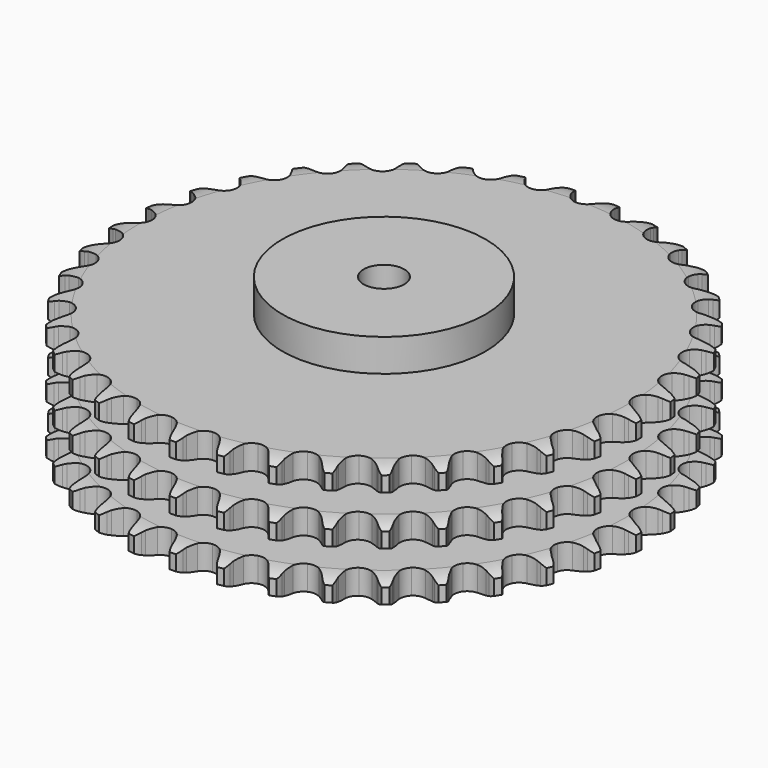
from build123d import *

# Parameters (mm, degrees)
PAD_DEPTH         = 91
SKETCH001_R       = 75
PAD001_DEPTH      = 115
SKETCH002_R       = 15
POCKET_DEPTH      = 0.001
POCKET_DEPTH_BACK = 115.001


with BuildPart() as part:
    # Sprocket → Pad (new body)
    with BuildSketch(Plane.XY):
        with BuildLine():
            ThreePointArc((-16.760043, 196.916247), (-13.948654, 193.906801), (-12.029583, 190.262924))
            Line((-12.029583, 190.262924), (-11.100423, 187.728692))
            ThreePointArc((-11.100423, 187.728692), (-9.632855, 184.471838), (-7.713495, 181.459046))
            ThreePointArc((-7.713495, 181.459046), (-4.316661, 178.605349), (0, 177.581386))
            ThreePointArc((0, 177.581386), (4.316661, 178.605349), (7.713495, 181.459046))
            ThreePointArc((7.713495, 181.459046), (9.632855, 184.471838), (11.100423, 187.728692))
            Line((11.100423, 187.728692), (12.029583, 190.262924))
            ThreePointArc((12.029583, 190.262924), (13.948654, 193.906801), (16.760043, 196.916247))
            ThreePointArc((16.760043, 196.916247), (19.022393, 193.474962), (20.298042, 189.559175))
            Line((20.298042, 189.559175), (20.785549, 186.904367))
            ThreePointArc((20.785549, 186.904367), (21.681597, 183.446339), (23.064184, 180.15251))
            ThreePointArc((23.064184, 180.15251), (25.929881, 176.765793), (30.0114, 175.027039))
            ThreePointArc((30.0114, 175.027039), (34.439021, 175.306755), (38.269271, 177.545336))
            Line((38.269271, 177.545336), (42.667057, 183.152405))
            ThreePointArc((42.667057, 183.152405), (43.307294, 184.341043), (44.011138, 185.493156))
            ThreePointArc((44.011138, 185.493156), (46.518424, 188.760294), (49.797972, 191.251325))
            ThreePointArc((49.797972, 191.251325), (51.4462, 187.477201), (52.041729, 183.402153))
            Line((52.041729, 183.402153), (52.073559, 180.703143))
            ThreePointArc((52.073559, 180.703143), (52.372308, 177.143423), (53.178349, 173.663314))
            ThreePointArc((53.178349, 173.663314), (55.430467, 169.841007), (59.159426, 167.437483))
            ThreePointArc((59.159426, 167.437483), (63.570632, 166.964904), (67.72411, 168.52397))
            Line((67.72411, 168.52397), (73.006237, 173.307157))
            ThreePointArc((73.006237, 173.307157), (73.838145, 174.370497), (74.726574, 175.387087))
            ThreePointArc((74.726574, 175.387087), (77.749943, 178.183497), (81.403304, 180.084451))
            ThreePointArc((81.403304, 180.084451), (82.389994, 176.086062), (82.288271, 171.968985))
            Line((82.288271, 171.968985), (81.863508, 169.303418))
            ThreePointArc((81.863508, 169.303418), (81.556364, 165.744413), (81.762669, 162.178141))
            ThreePointArc((81.762669, 162.178141), (83.33642, 158.030204), (86.605544, 155.031056))
            ThreePointArc((86.605544, 155.031056), (90.873432, 153.819777), (95.230649, 154.654476))
            Line((95.230649, 154.654476), (101.24516, 158.476178))
            ThreePointArc((101.24516, 158.476178), (102.244807, 159.383629), (103.292262, 160.235451))
            ThreePointArc((103.292262, 160.235451), (106.744739, 162.480685), (110.666812, 163.736875))
            ThreePointArc((110.666812, 163.736875), (110.963578, 159.629248), (110.167528, 155.588582))
            Line((110.167528, 155.588582), (109.298393, 153.033142))
            ThreePointArc((109.298393, 153.033142), (108.394192, 149.577238), (107.994827, 146.027398))
            ThreePointArc((107.994827, 146.027398), (108.844935, 141.673161), (111.560178, 138.164667))
            ThreePointArc((111.560178, 138.164667), (115.561969, 136.249535), (119.997576, 136.335854))
            Line((119.997576, 136.335854), (126.571445, 139.086127))
            ThreePointArc((126.571445, 139.086127), (127.710073, 139.811584), (128.886419, 140.474133))
            ThreePointArc((128.886419, 140.474133), (132.668682, 142.1036), (136.746637, 142.678887))
            ThreePointArc((136.746637, 142.678887), (136.344942, 138.580191), (134.877467, 134.73218))
            Line((134.877467, 134.73218), (133.588961, 132.360382))
            ThreePointArc((133.588961, 132.360382), (132.113716, 129.106998), (131.120169, 125.675712))
            ThreePointArc((131.120169, 125.675712), (131.22218, 121.240438), (133.305428, 117.323533))
            ThreePointArc((133.305428, 117.323533), (136.925998, 114.759642), (141.312392, 114.095098))
            Line((141.312392, 114.095098), (148.256499, 115.694822))
            ThreePointArc((148.256499, 115.694822), (149.501352, 116.217414), (150.772749, 116.67163))
            ThreePointArc((150.772749, 116.67163), (154.775989, 117.638453), (158.89251, 117.516287))
            ThreePointArc((158.89251, 117.516287), (157.80391, 113.544434), (155.707226, 109.999777))
            Line((155.707226, 109.999777), (154.036419, 107.879854))
            ThreePointArc((154.036419, 107.879854), (152.032569, 104.922585), (150.473423, 101.708565))
            ThreePointArc((150.473423, 101.708565), (149.824402, 97.319848), (151.215724, 93.107214))
            ThreePointArc((151.215724, 93.107214), (154.350916, 89.968323), (158.561907, 88.572034))
            Line((158.561907, 88.572034), (165.676484, 88.975187))
            ThreePointArc((165.676484, 88.975187), (166.99175, 89.279882), (168.321622, 89.512697))
            ThreePointArc((168.321622, 89.512697), (172.430672, 89.789062), (176.467335, 88.972958))
            ThreePointArc((176.467335, 88.972958), (174.723147, 85.24221), (172.057572, 82.102882))
            Line((172.057572, 82.102882), (170.052529, 80.29582))
            ThreePointArc((170.052529, 80.29582), (167.577722, 77.71974), (165.497831, 74.815448))
            ThreePointArc((165.497831, 74.815448), (164.116449, 70.599544), (164.775819, 66.21237))
            ThreePointArc((164.775819, 66.21237), (167.335439, 62.588779), (171.249884, 60.500913))
            Line((171.249884, 60.500913), (178.330258, 59.695898))
            ThreePointArc((178.330258, 59.695898), (179.678099, 59.773929), (181.028188, 59.778646))
            ThreePointArc((181.028188, 59.778646), (185.124839, 59.356603), (188.965516, 57.870039))
            ThreePointArc((188.965516, 57.870039), (186.615917, 54.487723), (183.458135, 51.844036))
            Line((183.458135, 51.844036), (181.176538, 50.401821))
            ThreePointArc((181.176538, 50.401821), (178.301969, 48.28104), (175.761168, 45.770027))
            ThreePointArc((175.761168, 45.770027), (173.687164, 41.848219), (173.595614, 37.412717))
            ThreePointArc((173.595614, 37.412717), (175.506026, 33.40867), (179.011315, 30.689292))
            Line((179.011315, 30.689292), (185.853796, 28.699267))
            ThreePointArc((185.853796, 28.699267), (187.195436, 28.548389), (188.526902, 28.324872))
            ThreePointArc((188.526902, 28.324872), (192.493301, 27.216563), (196.027503, 25.102304))
            ThreePointArc((196.027503, 25.102304), (193.140087, 22.165724), (189.580941, 20.093731))
            Line((189.580941, 20.093731), (187.088427, 19.057853))
            ThreePointArc((187.088427, 19.057853), (183.896793, 17.453382), (180.968175, 15.407885))
            ThreePointArc((180.968175, 15.407885), (178.261216, 11.892998), (177.421379, 7.536768))
            ThreePointArc((177.421379, 7.536768), (178.627624, 3.267454), (181.622915, -0.005205))
            Line((181.622915, -0.005205), (188.030658, -3.12299))
            ThreePointArc((188.030658, -3.12299), (189.327501, -3.498435), (190.602041, -3.943756))
            ThreePointArc((190.602041, -3.943756), (194.324082, -5.706448), (197.450136, -8.387579))
            ThreePointArc((197.450136, -8.387579), (194.107968, -10.793943), (190.249849, -12.234633))
            Line((190.249849, -12.234633), (187.618123, -12.834375))
            ThreePointArc((187.618123, -12.834375), (184.201241, -13.876378), (180.969058, -15.397513))
            ThreePointArc((180.969058, -15.397513), (177.707017, -18.404364), (176.143054, -22.556))
            ThreePointArc((176.143054, -22.556), (176.610431, -26.96776), (179.009556, -30.699552))
            Line((179.009556, -30.699552), (184.79822, -34.855404))
            ThreePointArc((184.79822, -34.855404), (186.012959, -35.444617), (187.193906, -36.09893))
            ThreePointArc((187.193906, -36.09893), (190.564512, -38.465295), (193.192487, -41.636166))
            ThreePointArc((193.192487, -41.636166), (189.491716, -43.443087), (185.445615, -44.21103))
            Line((185.445615, -44.21103), (182.750387, -44.357381))
            ThreePointArc((182.750387, -44.357381), (179.206554, -44.806939), (175.763791, -45.759953))
            ThreePointArc((175.763791, -45.759953), (172.04051, -48.172265), (169.797414, -51.999873))
            ThreePointArc((169.797414, -51.999873), (169.512477, -56.427161), (171.246417, -60.510728))
            Line((171.246417, -60.510728), (176.249474, -65.585091))
            ThreePointArc((176.249474, -65.585091), (177.347163, -66.371121), (178.400543, -67.215604))
            ThreePointArc((178.400543, -67.215604), (181.322749, -70.117566), (183.377043, -73.686957))
            ThreePointArc((183.377043, -73.686957), (179.424133, -74.842454), (175.306448, -74.915555))
            Line((175.306448, -74.915555), (172.625256, -74.604306))
            ThreePointArc((172.625256, -74.604306), (169.056422, -74.448487), (165.502119, -74.805963))
            ThreePointArc((165.502119, -74.805963), (161.424712, -76.554339), (158.567011, -79.947805))
            ThreePointArc((158.567011, -79.947805), (157.537958, -84.263256), (158.55683, -88.581121))
            Line((158.55683, -88.581121), (162.630352, -94.428015))
            ThreePointArc((162.630352, -94.428015), (163.579411, -95.388248), (164.474922, -96.398607))
            ThreePointArc((164.474922, -96.398607), (166.86466, -99.752682), (168.286175, -103.617907))
            ThreePointArc((168.286175, -103.617907), (164.194844, -104.088739), (160.124034, -103.464897))
            Line((160.124034, -103.464897), (157.53401, -102.705))
            ThreePointArc((157.53401, -102.705), (154.042843, -101.948287), (150.479252, -101.699941))
            ThreePointArc((150.479252, -101.699941), (146.165018, -102.734083), (142.774924, -105.595783))
            ThreePointArc((142.774924, -105.595783), (141.031358, -109.675249), (141.305852, -114.103197))
            Line((141.305852, -114.103197), (144.33265, -120.554417))
            ThreePointArc((144.33265, -120.554417), (145.105778, -121.66123), (145.817656, -122.808397))
            ThreePointArc((145.817656, -122.808397), (147.606179, -126.518095), (148.35402, -130.56796))
            ThreePointArc((148.35402, -130.56796), (144.241969, -130.34058), (140.335143, -129.037742))
            Line((140.335143, -129.037742), (137.910797, -127.851059))
            ThreePointArc((137.910797, -127.851059), (134.597733, -126.515221), (131.127372, -125.668197))
            ThreePointArc((131.127372, -125.668197), (126.700423, -125.958355), (122.875463, -128.205964))
            ThreePointArc((122.875463, -128.205964), (120.467544, -131.932086), (119.989762, -136.342731))
            Line((119.989762, -136.342731), (121.882761, -143.212688))
            ThreePointArc((121.882761, -143.212688), (122.457716, -144.43424), (122.965482, -145.685214))
            ThreePointArc((122.965482, -145.685214), (124.101336, -149.643813), (124.153991, -153.76181))
            ThreePointArc((124.153991, -153.76181), (120.139514, -152.842761), (116.509066, -150.898406))
            Line((116.509066, -150.898406), (114.320142, -149.319076))
            ThreePointArc((114.320142, -149.319076), (111.280491, -147.442542), (108.003196, -146.021208))
            ThreePointArc((108.003196, -146.021208), (103.590888, -145.559034), (99.441098, -147.127892))
            ThreePointArc((99.441098, -147.127892), (96.438097, -150.393477), (95.221785, -154.659933))
            Line((95.221785, -154.659933), (95.926527, -161.75099))
            ThreePointArc((95.926527, -161.75099), (96.286768, -163.052139), (96.575815, -164.370932))
            ThreePointArc((96.575815, -164.370932), (97.026324, -168.46455), (96.382276, -172.532212))
            ThreePointArc((96.382276, -172.532212), (92.580865, -170.947933), (89.331235, -168.417997))
            Line((89.331235, -168.417997), (87.440704, -166.491455))
            ThreePointArc((87.440704, -166.491455), (84.761912, -164.128209), (81.771964, -162.173454))
            ThreePointArc((81.771964, -162.173454), (77.501231, -160.972245), (73.145994, -161.817218))
            ThreePointArc((73.145994, -161.817218), (69.634302, -164.528321), (67.714451, -168.527851))
            Line((67.714451, -168.527851), (67.210661, -175.636011))
            ThreePointArc((67.210661, -175.636011), (67.345825, -176.979325), (67.407837, -178.327997))
            ThreePointArc((67.407837, -178.327997), (67.160042, -182.43887), (65.83782, -186.339177))
            ThreePointArc((65.83782, -186.339177), (62.358832, -184.135245), (59.583506, -181.092509))
            Line((59.583506, -181.092509), (58.045757, -178.874178))
            ThreePointArc((58.045757, -178.874178), (55.804887, -176.092207), (53.188302, -173.660266))
            ThreePointArc((53.188302, -173.660266), (49.182005, -171.754577), (44.746613, -171.851358))
            ThreePointArc((44.746613, -171.851358), (40.827254, -173.929985), (38.259095, -177.547529))
            Line((38.259095, -177.547529), (36.561267, -184.468304))
            ThreePointArc((36.561267, -184.468304), (36.467466, -185.815138), (36.300659, -187.154891))
            ThreePointArc((36.300659, -187.154891), (35.361687, -191.164755), (33.399329, -194.785503))
            ThreePointArc((33.399329, -194.785503), (30.34285, -192.025321), (28.121669, -188.55732))
            Line((28.121669, -188.55732), (26.980939, -186.111016))
            ThreePointArc((26.980939, -186.111016), (25.242457, -182.990353), (23.074509, -180.151188))
            ThreePointArc((23.074509, -180.151188), (19.447902, -177.595843), (15.059954, -176.941647))
            ThreePointArc((15.059954, -176.941647), (10.845681, -178.328), (7.703095, -181.459488))
            Line((7.703095, -181.459488), (4.860072, -187.993779))
            ThreePointArc((4.860072, -187.993779), (4.540004, -189.305388), (4.149177, -190.59768))
            ThreePointArc((4.149177, -190.59768), (2.546041, -194.391178), (0, -197.628205))
            ThreePointArc((0, -197.628205), (-2.546041, -194.391178), (-4.149177, -190.59768))
            Line((-4.149177, -190.59768), (-4.860072, -187.993779))
            ThreePointArc((-4.860072, -187.993779), (-6.046152, -184.624199), (-7.703095, -181.459488))
            ThreePointArc((-7.703095, -181.459488), (-10.845681, -178.328), (-15.059954, -176.941647))
            ThreePointArc((-15.059954, -176.941647), (-19.447902, -177.595843), (-23.074509, -180.151188))
            Line((-23.074509, -180.151188), (-26.980939, -186.111016))
            ThreePointArc((-26.980939, -186.111016), (-27.518066, -187.349667), (-28.121669, -188.55732))
            ThreePointArc((-28.121669, -188.55732), (-30.34285, -192.025321), (-33.399329, -194.785503))
            ThreePointArc((-33.399329, -194.785503), (-35.361687, -191.164755), (-36.300659, -187.154891))
            Line((-36.300659, -187.154891), (-36.561267, -184.468304))
            ThreePointArc((-36.561267, -184.468304), (-37.160825, -180.946743), (-38.259095, -177.547529))
            ThreePointArc((-38.259095, -177.547529), (-40.827254, -173.929985), (-44.746613, -171.851358))
            ThreePointArc((-44.746613, -171.851358), (-49.182005, -171.754577), (-53.188302, -173.660266))
            Line((-53.188302, -173.660266), (-58.045757, -178.874178))
            ThreePointArc((-58.045757, -178.874178), (-58.784491, -180.004237), (-59.583506, -181.092509))
            ThreePointArc((-59.583506, -181.092509), (-62.358832, -184.135245), (-65.83782, -186.339177))
            ThreePointArc((-65.83782, -186.339177), (-67.160042, -182.43887), (-67.407837, -178.327997))
            Line((-67.407837, -178.327997), (-67.210661, -175.636011))
            ThreePointArc((-67.210661, -175.636011), (-67.206448, -172.063779), (-67.714451, -168.527851))
            ThreePointArc((-67.714451, -168.527851), (-69.634302, -164.528321), (-73.145994, -161.817218))
            ThreePointArc((-73.145994, -161.817218), (-77.501231, -160.972245), (-81.771964, -162.173454))
            Line((-81.771964, -162.173454), (-87.440704, -166.491455))
            ThreePointArc((-87.440704, -166.491455), (-88.359793, -167.480413), (-89.331235, -168.417997))
            ThreePointArc((-89.331235, -168.417997), (-92.580865, -170.947933), (-96.382276, -172.532212))
            ThreePointArc((-96.382276, -172.532212), (-97.026324, -168.46455), (-96.575815, -164.370932))
            Line((-96.575815, -164.370932), (-95.926527, -161.75099))
            ThreePointArc((-95.926527, -161.75099), (-95.318665, -158.230854), (-95.221785, -154.659933))
            ThreePointArc((-95.221785, -154.659933), (-96.438097, -150.393477), (-99.441098, -147.127892))
            ThreePointArc((-99.441098, -147.127892), (-103.590888, -145.559034), (-108.003196, -146.021208))
            Line((-108.003196, -146.021208), (-114.320142, -149.319076))
            ThreePointArc((-114.320142, -149.319076), (-115.393145, -150.138482), (-116.509066, -150.898406))
            ThreePointArc((-116.509066, -150.898406), (-120.139514, -152.842761), (-124.153991, -153.76181))
            ThreePointArc((-124.153991, -153.76181), (-124.101336, -149.643813), (-122.965482, -145.685214))
            Line((-122.965482, -145.685214), (-121.882761, -143.212688))
            ThreePointArc((-121.882761, -143.212688), (-120.688736, -139.845914), (-119.989762, -136.342731))
            ThreePointArc((-119.989762, -136.342731), (-120.467544, -131.932086), (-122.875463, -128.205964))
            ThreePointArc((-122.875463, -128.205964), (-126.700423, -125.958355), (-131.127372, -125.668197))
            Line((-131.127372, -125.668197), (-137.910797, -127.851059))
            ThreePointArc((-137.910797, -127.851059), (-139.106847, -128.47734), (-140.335143, -129.037742))
            ThreePointArc((-140.335143, -129.037742), (-144.241969, -130.34058), (-148.35402, -130.56796))
            ThreePointArc((-148.35402, -130.56796), (-147.606179, -126.518095), (-145.817656, -122.808397))
            Line((-145.817656, -122.808397), (-144.33265, -120.554417))
            ThreePointArc((-144.33265, -120.554417), (-142.586813, -117.437863), (-141.305852, -114.103197))
            ThreePointArc((-141.305852, -114.103197), (-141.031358, -109.675249), (-142.774924, -105.595783))
            ThreePointArc((-142.774924, -105.595783), (-146.165018, -102.734083), (-150.479252, -101.699941))
            Line((-150.479252, -101.699941), (-157.53401, -102.705))
            ThreePointArc((-157.53401, -102.705), (-158.818697, -103.120139), (-160.124034, -103.464897))
            ThreePointArc((-160.124034, -103.464897), (-164.194844, -104.088739), (-168.286175, -103.617907))
            ThreePointArc((-168.286175, -103.617907), (-166.86466, -99.752682), (-164.474922, -96.398607))
            Line((-164.474922, -96.398607), (-162.630352, -94.428015))
            ThreePointArc((-162.630352, -94.428015), (-160.382927, -91.651338), (-158.55683, -88.581121))
            ThreePointArc((-158.55683, -88.581121), (-157.537958, -84.263256), (-158.567011, -79.947805))
            ThreePointArc((-158.567011, -79.947805), (-161.424712, -76.554339), (-165.502119, -74.805963))
            Line((-165.502119, -74.805963), (-172.625256, -74.604306))
            ThreePointArc((-172.625256, -74.604306), (-173.961623, -74.79636), (-175.306448, -74.915555))
            ThreePointArc((-175.306448, -74.915555), (-179.424133, -74.842454), (-183.377043, -73.686957))
            ThreePointArc((-183.377043, -73.686957), (-181.322749, -70.117566), (-178.400543, -67.215604))
            Line((-178.400543, -67.215604), (-176.249474, -65.585091))
            ThreePointArc((-176.249474, -65.585091), (-173.565116, -63.22817), (-171.246417, -60.510728))
            ThreePointArc((-171.246417, -60.510728), (-169.512477, -56.427161), (-169.797414, -51.999873))
            ThreePointArc((-169.797414, -51.999873), (-172.04051, -48.172265), (-175.763791, -45.759953))
            Line((-175.763791, -45.759953), (-182.750387, -44.357381))
            ThreePointArc((-182.750387, -44.357381), (-184.09999, -44.320826), (-185.445615, -44.21103))
            ThreePointArc((-185.445615, -44.21103), (-189.491716, -43.443087), (-193.192487, -41.636166))
            ThreePointArc((-193.192487, -41.636166), (-190.564512, -38.465295), (-187.193906, -36.09893))
            Line((-187.193906, -36.09893), (-184.79822, -34.855404))
            ThreePointArc((-184.79822, -34.855404), (-181.754152, -32.986044), (-179.009556, -30.699552))
            ThreePointArc((-179.009556, -30.699552), (-176.610431, -26.96776), (-176.143054, -22.556))
            ThreePointArc((-176.143054, -22.556), (-177.707017, -18.404364), (-180.969058, -15.397513))
            Line((-180.969058, -15.397513), (-187.618123, -12.834375))
            ThreePointArc((-187.618123, -12.834375), (-188.942135, -12.570262), (-190.249849, -12.234633))
            ThreePointArc((-190.249849, -12.234633), (-194.107968, -10.793943), (-197.450136, -8.387579))
            ThreePointArc((-197.450136, -8.387579), (-194.324082, -5.706448), (-190.602041, -3.943756))
            Line((-190.602041, -3.943756), (-188.030658, -3.12299))
            ThreePointArc((-188.030658, -3.12299), (-184.714452, -1.794969), (-181.622915, -0.005205))
            ThreePointArc((-181.622915, -0.005205), (-178.627624, 3.267454), (-177.421379, 7.536768))
            ThreePointArc((-177.421379, 7.536768), (-178.261216, 11.892998), (-180.968175, 15.407885))
            Line((-180.968175, 15.407885), (-187.088427, 19.057853))
            ThreePointArc((-187.088427, 19.057853), (-188.348759, 19.541926), (-189.580941, 20.093731))
            ThreePointArc((-189.580941, 20.093731), (-193.140087, 22.165724), (-196.027503, 25.102304))
            ThreePointArc((-196.027503, 25.102304), (-192.493301, 27.216563), (-188.526902, 28.324872))
            Line((-188.526902, 28.324872), (-185.853796, 28.699267))
            ThreePointArc((-185.853796, 28.699267), (-182.360854, 29.447744), (-179.011315, 30.689292))
            ThreePointArc((-179.011315, 30.689292), (-175.506026, 33.40867), (-173.595614, 37.412717))
            ThreePointArc((-173.595614, 37.412717), (-173.687164, 41.848219), (-175.761168, 45.770027))
            Line((-175.761168, 45.770027), (-181.176538, 50.401821))
            ThreePointArc((-181.176538, 50.401821), (-182.336932, 51.091928), (-183.458135, 51.844036))
            ThreePointArc((-183.458135, 51.844036), (-186.615917, 54.487723), (-188.965516, 57.870039))
            ThreePointArc((-188.965516, 57.870039), (-185.124839, 59.356603), (-181.028188, 59.778646))
            Line((-181.028188, 59.778646), (-178.330258, 59.695898))
            ThreePointArc((-178.330258, 59.695898), (-174.761067, 59.843299), (-171.249884, 60.500913))
            ThreePointArc((-171.249884, 60.500913), (-167.335439, 62.588779), (-164.775819, 66.21237))
            ThreePointArc((-164.775819, 66.21237), (-164.116449, 70.599544), (-165.497831, 74.815448))
            Line((-165.497831, 74.815448), (-170.052529, 80.29582))
            ThreePointArc((-170.052529, 80.29582), (-171.079603, 81.172108), (-172.057572, 82.102882))
            ThreePointArc((-172.057572, 82.102882), (-174.723147, 85.24221), (-176.467335, 88.972958))
            ThreePointArc((-176.467335, 88.972958), (-172.430672, 89.789062), (-168.321622, 89.512697))
            Line((-168.321622, 89.512697), (-165.676484, 88.975187))
            ThreePointArc((-165.676484, 88.975187), (-162.133721, 88.517271), (-158.561907, 88.572034))
            ThreePointArc((-158.561907, 88.572034), (-154.350916, 89.968323), (-151.215724, 93.107214))
            ThreePointArc((-151.215724, 93.107214), (-149.824402, 97.319848), (-150.473423, 101.708565))
            Line((-150.473423, 101.708565), (-154.036419, 107.879854))
            ThreePointArc((-154.036419, 107.879854), (-154.900626, 108.917114), (-155.707226, 109.999777))
            ThreePointArc((-155.707226, 109.999777), (-157.80391, 113.544434), (-158.89251, 117.516287))
            ThreePointArc((-158.89251, 117.516287), (-154.775989, 117.638453), (-150.772749, 116.67163))
            Line((-150.772749, 116.67163), (-148.256499, 115.694822))
            ThreePointArc((-148.256499, 115.694822), (-144.842084, 114.644763), (-141.312392, 114.095098))
            ThreePointArc((-141.312392, 114.095098), (-136.925998, 114.759642), (-133.305428, 117.323533))
            ThreePointArc((-133.305428, 117.323533), (-131.22218, 121.240438), (-131.120169, 125.675712))
            Line((-131.120169, 125.675712), (-133.588961, 132.360382))
            ThreePointArc((-133.588961, 132.360382), (-134.26544, 133.528774), (-134.877467, 134.73218))
            ThreePointArc((-134.877467, 134.73218), (-136.344942, 138.580191), (-136.746637, 142.678887))
            ThreePointArc((-136.746637, 142.678887), (-132.668682, 142.1036), (-128.886419, 140.474133))
            Line((-128.886419, 140.474133), (-126.571445, 139.086127))
            ThreePointArc((-126.571445, 139.086127), (-123.383603, 137.474133), (-119.997576, 136.335854))
            ThreePointArc((-119.997576, 136.335854), (-115.561969, 136.249535), (-111.560178, 138.164667))
            ThreePointArc((-111.560178, 138.164667), (-108.844935, 141.673161), (-107.994827, 146.027398))
            Line((-107.994827, 146.027398), (-109.298393, 153.033142))
            ThreePointArc((-109.298393, 153.033142), (-109.767681, 154.299053), (-110.167528, 155.588582))
            ThreePointArc((-110.167528, 155.588582), (-110.963578, 159.629248), (-110.666812, 163.736875))
            ThreePointArc((-110.666812, 163.736875), (-106.744739, 162.480685), (-103.292262, 160.235451))
            Line((-103.292262, 160.235451), (-101.24516, 158.476178))
            ThreePointArc((-101.24516, 158.476178), (-98.375601, 156.348623), (-95.230649, 154.654476))
            ThreePointArc((-95.230649, 154.654476), (-90.873432, 153.819777), (-86.605544, 155.031056))
            ThreePointArc((-86.605544, 155.031056), (-83.33642, 158.030204), (-81.762669, 162.178141))
            Line((-81.762669, 162.178141), (-81.863508, 169.303418))
            ThreePointArc((-81.863508, 169.303418), (-82.112107, 170.63043), (-82.288271, 171.968985))
            ThreePointArc((-82.288271, 171.968985), (-82.389994, 176.086062), (-81.403304, 180.084451))
            ThreePointArc((-81.403304, 180.084451), (-77.749943, 178.183497), (-74.726574, 175.387087))
            Line((-74.726574, 175.387087), (-73.006237, 173.307157))
            ThreePointArc((-73.006237, 173.307157), (-70.537512, 170.725248), (-67.72411, 168.52397))
            ThreePointArc((-67.72411, 168.52397), (-63.570632, 166.964904), (-59.159426, 167.437483))
            ThreePointArc((-59.159426, 167.437483), (-55.430467, 169.841007), (-53.178349, 173.663314))
            Line((-53.178349, 173.663314), (-52.073559, 180.703143))
            ThreePointArc((-52.073559, 180.703143), (-52.094316, 182.05308), (-52.041729, 183.402153))
            ThreePointArc((-52.041729, 183.402153), (-51.4462, 187.477201), (-49.797972, 191.251325))
            ThreePointArc((-49.797972, 191.251325), (-46.518424, 188.760294), (-44.011138, 185.493156))
            Line((-44.011138, 185.493156), (-42.667057, 183.152405))
            ThreePointArc((-42.667057, 183.152405), (-40.670187, 180.190418), (-38.269271, 177.545336))
            ThreePointArc((-38.269271, 177.545336), (-34.439021, 175.306755), (-30.0114, 175.027039))
            ThreePointArc((-30.0114, 175.027039), (-25.929881, 176.765793), (-23.064184, 180.15251))
            Line((-23.064184, 180.15251), (-20.785549, 186.904367))
            ThreePointArc((-20.785549, 186.904367), (-20.577867, 188.238394), (-20.298042, 189.559175))
            ThreePointArc((-20.298042, 189.559175), (-19.022393, 193.474962), (-16.760043, 196.916247))
        make_face()
    extrude(amount=PAD_DEPTH)

    # Sketch → Groove (revolve, cut)
    with BuildSketch(Plane.XZ):
        with BuildLine():
            ThreePointArc((180.198368, 0), (187.681683, 0.887302), (194.75, 3.5))
            Line((194.75, 3.5), (194.75, 14.7))
            ThreePointArc((194.75, 14.7), (187.681683, 17.312698), (180.198368, 18.2))
            Line((75, 18.2), (180.198368, 18.2))
            Line((75, 18.2), (75, 36.4))
            Line((75, 36.4), (180.198368, 36.4))
            ThreePointArc((180.198368, 36.4), (187.681683, 37.287302), (194.75, 39.9))
            Line((194.75, 51.1), (194.75, 39.9))
            ThreePointArc((194.75, 51.1), (187.681683, 53.712698), (180.198368, 54.6))
            Line((75, 54.6), (180.198368, 54.6))
            Line((75, 72.8), (75, 54.6))
            Line((180.198368, 72.8), (75, 72.8))
            ThreePointArc((180.198368, 72.8), (187.681683, 73.687302), (194.75, 76.3))
            Line((194.75, 76.3), (194.75, 87.5))
            ThreePointArc((194.75, 87.5), (187.681683, 90.112698), (180.198368, 91))
            Line((180.198368, 91), (204.75, 91))
            Line((204.75, 91), (204.75, 0))
            Line((180.198368, 0), (204.75, 0))
        make_face()
    revolve(axis=Axis((0, 0, 0), (0, 0, 1)), mode=Mode.SUBTRACT)

    # Sketch001 → Pad001 (join)
    with BuildSketch(Plane.XY):
        Circle(SKETCH001_R)
    extrude(amount=PAD001_DEPTH)

    # Sketch002 → Pocket (cut, two sides)
    with BuildSketch(Plane.XY) as pocket_sk:
        Circle(SKETCH002_R)
    extrude(amount=-POCKET_DEPTH, mode=Mode.SUBTRACT)
    extrude(pocket_sk.sketch, amount=POCKET_DEPTH_BACK, mode=Mode.SUBTRACT)


solid = part.part
